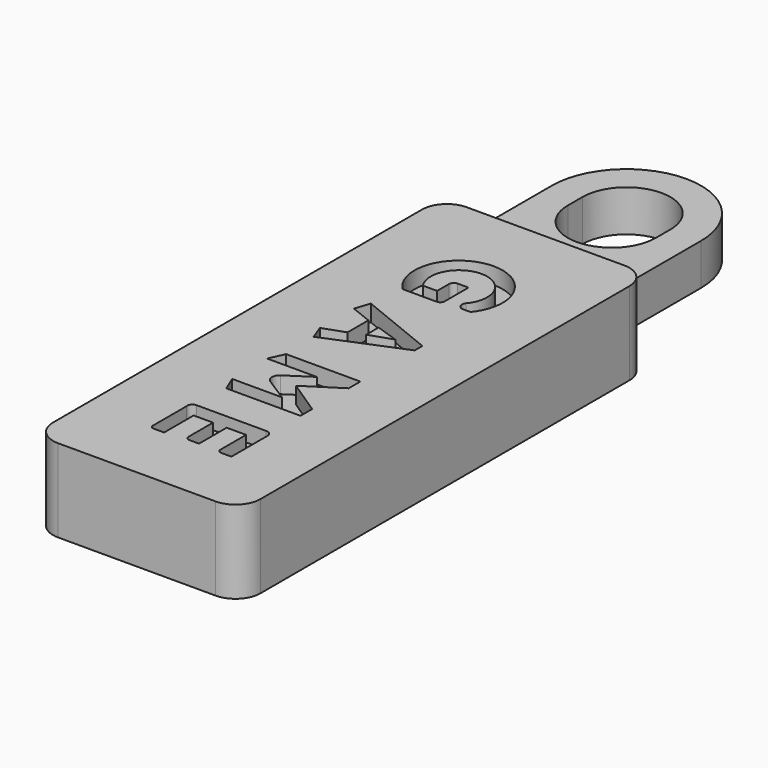
from build123d import *

# Parameters (mm, degrees)
SKETCH_W     = 12.5
SKETCH_H     = 30.8
PAD_DEPTH    = 2.5
FILLET_R     = 1.5
POCKET_DEPTH = 1
PAD003_DEPTH = 1.25


with BuildPart() as rubber_puller:
    # Sketch → Pad (new body, symmetric)
    with BuildSketch(Plane.XY):
        Rectangle(SKETCH_W, SKETCH_H)
    extrude(amount=PAD_DEPTH, both=True)

    # Fillet
    fillet_edges = [rubber_puller.edges().sort_by_distance(p)[0] for p in [
        (6.25, 15.4, 0),
        (-6.25, 15.4, 0),
        (6.25, -15.4, 0),
        (-6.25, -15.4, 0),
    ]]
    fillet(fillet_edges, radius=FILLET_R)

    # Sketch002 → Pocket (cut)
    with BuildSketch(Plane.XY.offset(2.5)):
        with BuildLine():
            Line((2.058635, 7.170651), (1.610806, 7.170651))
            ThreePointArc((1.34296, 7.741509), (1.29552, 7.370985), (1.610806, 7.170651))
            ThreePointArc((1.34296, 7.741509), (0.114748, 10.530364), (-1.373665, 7.871258))
            Line((-1.373665, 7.871258), (-0.513986, 7.871258))
            Line((-0.513986, 7.871258), (-0.513986, 8.748692))
            ThreePointArc((-0.230489, 9.056394), (-0.432308, 8.957888), (-0.513986, 8.748692))
            Line((-0.230489, 9.056394), (0.429843, 9.056394))
            Line((0.429843, 9.056394), (0.429843, 7.262931))
            ThreePointArc((0.162389, 6.995477), (0.351508, 7.073812), (0.429843, 7.262931))
            Line((0.162389, 6.995477), (-1.902788, 6.995477))
            ThreePointArc((2.058635, 7.170651), (-0.117233, 11.496364), (-1.902788, 6.995477))
        make_face()
        Polygon((-2.443622, 4.013659), (-2.14313, 4.91588), (2.452536, 3.051914), (2.452536, 2.474867), (-2.133095, 0.586349), (-2.463233, 1.478149), (-1.167123, 1.932792), (-1.167123, 3.506557), align=None)
        Polygon((-0.332095, 3.238178), (-0.332095, 2.293919), (1.053634, 2.766049), align=None, mode=Mode.SUBTRACT)
        with BuildLine():
            Line((-2.457387, -2.513311), (-2.035587, -1.60428))
            Line((-2.035587, -1.60428), (2.437693, -1.60428))
            Line((2.437693, -1.60428), (2.437693, -2.481753))
            Line((2.437693, -2.481753), (0.337054, -3.830913))
            Line((0.337054, -3.830913), (2.41812, -5.210073))
            Line((2.41812, -5.210073), (2.41812, -6.087545))
            Line((2.41812, -6.087545), (-2.05516, -6.087545))
            Line((-2.05516, -6.087545), (-2.441861, -5.163037))
            Line((-2.441861, -5.163037), (0.560915, -5.163037))
            Line((0.560915, -5.163037), (-0.881533, -4.240265))
            ThreePointArc((-0.886372, -3.45376), (-1.097647, -3.848327), (-0.881533, -4.240265))
            Line((-0.886372, -3.45376), (0.544614, -2.513311))
            Line((0.544614, -2.513311), (-2.457387, -2.513311))
        make_face()
        with BuildLine():
            Line((-2.381374, -8.696545), (-2.381374, -11.221022))
            ThreePointArc((-2.381374, -11.221022), (-2.329613, -11.358433), (-2.200058, -11.427544))
            Line((-2.200058, -11.427544), (-1.531374, -11.427544))
            Line((-1.531374, -11.427544), (-1.531374, -9.205301))
            Line((-1.531374, -9.205301), (-0.362716, -9.205301))
            Line((-0.362716, -9.205301), (-0.362716, -11.063174))
            ThreePointArc((-0.362716, -11.063174), (-0.296064, -11.224086), (-0.135153, -11.290738))
            Line((-0.135153, -11.290738), (0.462527, -11.290738))
            Line((0.462527, -11.290738), (0.462527, -9.205301))
            Line((0.462527, -9.205301), (1.631185, -9.205301))
            Line((1.631185, -9.205301), (1.631185, -11.146011))
            ThreePointArc((1.631185, -11.146011), (1.703494, -11.312388), (1.874469, -11.373031))
            Line((1.874469, -11.373031), (2.481185, -11.373031))
            Line((2.481185, -11.373031), (2.481185, -8.643844))
            ThreePointArc((2.481185, -8.643844), (2.375308, -8.396199), (2.123126, -8.301635))
            Line((2.123126, -8.301635), (-2.07554, -8.301635))
            ThreePointArc((-2.07554, -8.301635), (-2.325284, -8.424104), (-2.381374, -8.696545))
        make_face()
    extrude(amount=-POCKET_DEPTH, mode=Mode.SUBTRACT)


with BuildPart() as metal_puller:
    # Sketch004 → Pad003 (new body, symmetric)
    with BuildSketch(Plane.XY):
        with BuildLine():
            Line((-4.5, 15.4), (4.5, 15.4))
            Line((4.5, 15.4), (4.5, 21.491394))
            ThreePointArc((4.5, 21.491394), (0, 25.991394), (-4.5, 21.491394))
            Line((-4.5, 21.491394), (-4.5, 15.4))
        make_face()
        with BuildLine():
            Line((-2.65, 21.491394), (-2.65, 20.391394))
            ThreePointArc((-2.65, 20.391394), (0, 17.741394), (2.65, 20.391394))
            Line((2.65, 20.391394), (2.65, 21.491394))
            ThreePointArc((2.65, 21.491394), (0, 24.141394), (-2.65, 21.491394))
        make_face(mode=Mode.SUBTRACT)
    extrude(amount=PAD003_DEPTH, both=True)


solid = Compound([rubber_puller.part, metal_puller.part])
